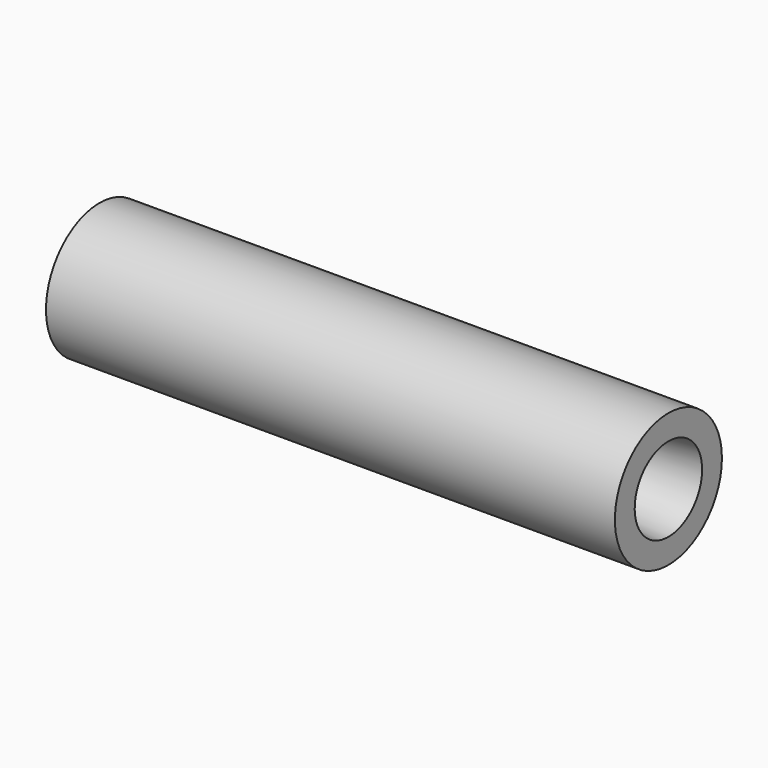
from build123d import *

# Parameters (mm, degrees)
F0_R          = 12.7
F2_DEPTH      = 65
F2_DEPTH_BACK = 43


with BuildPart() as f2:
    # F0 (on Right) → F2 (new body, two sides)
    with BuildSketch(Plane.YZ) as f2_sk:
        Circle(F0_R)
    extrude(amount=F2_DEPTH)
    extrude(f2_sk.sketch, amount=-F2_DEPTH_BACK)

    # F1 (on Front) → F3 (revolve, cut)
    with BuildSketch(Plane.XZ):
        Polygon((-43, 0), (0, 0), (65, 0), (65, 8), (10, 2.25), (0, 2.25), (-10, 2.25), (-43, 1.190625), align=None)
    revolve(axis=Axis((-21.5, 0, 0), (1, 0, 0)), mode=Mode.SUBTRACT)


solid = f2.part
